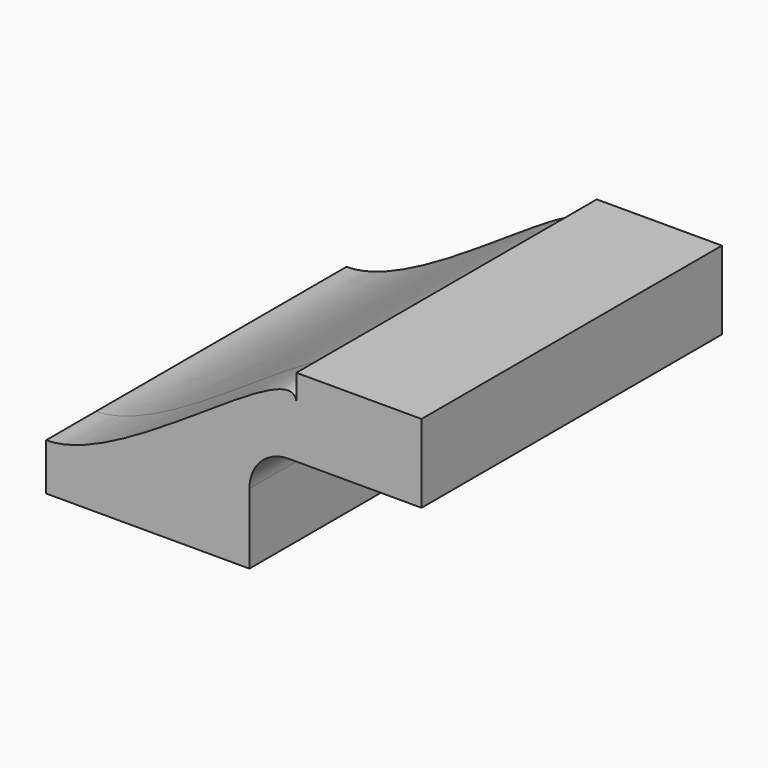
from build123d import *

# Parameters (mm, degrees)
F1_DEPTH = 127
F2_DEPTH = 25.4


with BuildPart() as f1:
    # F0 (on Front) → F1 (new body)
    with BuildSketch(Plane.XZ):
        Polygon((-41.275, 9.525), (-41.275, -9.525), (41.275, -9.525), (41.275, 9.525), (22.225, 9.525), align=None)
        with BuildLine():
            add(Edge.make_bspline(
                [(-41.275, 9.525), (-8.6202568682, 9.525), (57.7562975598, 73.3467516444), (60.325, 56.3711255966)],
                knots=[0, 0, 0, 0, 106.6877251483, 106.6877251483, 106.6877251483, 106.6877251483], degree=3))
            Line((-41.275, 9.525), (22.225, 9.525))
            Line((22.225, 9.525), (22.225, 19.05))
            ThreePointArc((22.225, 19.05), (32.4542956671, 43.7457043329), (57.15, 53.975))
            Line((57.15, 53.975), (60.325, 53.975))
            Line((60.325, 53.975), (60.325, 56.3711255966))
        make_face()
        with BuildLine():
            Line((22.225, 9.525), (41.275, 9.525))
            Line((41.275, 9.525), (41.275, 19.05))
            ThreePointArc((41.275, 19.05), (45.9246798487, 30.2753201513), (57.15, 34.925))
            Line((57.15, 34.925), (60.325, 34.925))
            Line((60.325, 34.925), (60.325, 53.975))
            Line((60.325, 53.975), (57.15, 53.975))
            ThreePointArc((57.15, 53.975), (32.4542956671, 43.7457043329), (22.225, 19.05))
            Line((22.225, 19.05), (22.225, 9.525))
        make_face()
        with BuildLine():
            add(Edge.make_bspline(
                [(60.325, 56.3711255966), (60.4263696567, 55.7012101725), (60.4283676683, 54.9054643358), (60.325, 53.975)],
                knots=[106.6877251483, 106.6877251483, 106.6877251483, 106.6877251483, 110.8979823982, 110.8979823982, 110.8979823982, 110.8979823982], degree=3))
            Line((60.325, 56.3711255966), (60.325, 53.975))
        make_face()
        with BuildLine():
            Line((60.325, 66.675), (60.325, 56.3711255966))
            add(Edge.make_bspline(
                [(60.325, 56.3711255966), (60.4263696567, 55.7012101725), (60.4283676683, 54.9054643358), (60.325, 53.975)],
                knots=[106.6877251483, 106.6877251483, 106.6877251483, 106.6877251483, 110.8979823982, 110.8979823982, 110.8979823982, 110.8979823982], degree=3))
            Line((60.325, 53.975), (60.325, 34.925))
            Line((60.325, 34.925), (73.2388391052, 34.925))
            Line((73.2388391052, 34.925), (111.125, 34.925))
            Line((111.125, 34.925), (111.125, 66.675))
            Line((111.125, 66.675), (60.325, 66.675))
        make_face()
    extrude(amount=F1_DEPTH)

    # F2 (add): faces of the model
    f2_faces = [f1.faces().sort_by_distance(p)[0] for p in [
        (36.5781101492, -127, 26.7856673902),
        (36.5781101492, -127, 26.7856673902),
    ]]
    extrude(f2_faces, amount=F2_DEPTH)


solid = f1.part
